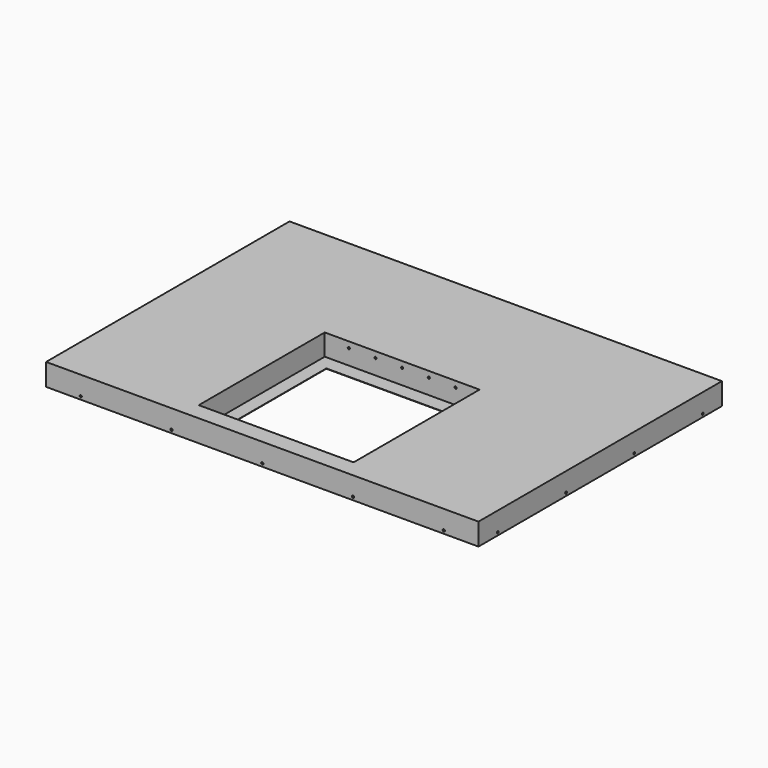
from build123d import *

# Parameters (mm, degrees)
F1_DEPTH  = 52.324
F2_T      = -1.27
F4_D      = 5.2197
F4_DEPTH  = 0.762
F4_TIP    = 1.5681560866
F6_D      = 5.2197
F7_W      = 368.3
F7_H      = 374.65
F8_DEPTH  = 52.325
F9_W      = 369.824
F9_H      = 376.174
F9_W_2    = 368.3
F9_H_2    = 374.65
F10_DEPTH = 51.562
F11_W     = 368.3
F11_H     = 374.65
F11_W_2   = 304.8
F11_H_2   = 304.8
F12_DEPTH = 0.762
F14_D     = 5.2197
F14_DEPTH = 0.762
F14_TIP   = 1.5681560866
F16_D     = 5.2197
F16_DEPTH = 0.762
F16_TIP   = 1.5681560866


with BuildPart() as f1:
    # F0 (on Top) → F1 (new body)
    with BuildSketch(Plane.XY):
        Polygon((-514.35, 361.95), (-514.35, -361.95), (0, -361.95), (0, 0), (0, 361.95), align=None)
        Polygon((0, 0), (0, -361.95), (514.35, -361.95), (514.35, 361.95), (0, 361.95), align=None)
    extrude(amount=F1_DEPTH)

    # F2
    f2_openings = [f1.faces().sort_by_distance(p)[0] for p in [
        (0, 0, 0),
    ]]
    offset(amount=F2_T, openings=f2_openings)

    # F4
    with Locations(Plane.XZ.offset(361.95)):
        with Locations((-431.8, 7.112), (-215.9, 7.112), (0, 7.112), (215.9, 7.112), (431.8, 7.112)):
            Hole(F4_D / 2, depth=F4_DEPTH)
            with Locations((0, 0, -(F4_DEPTH + F4_TIP / 2))):  # 118° drill point
                Cone(0, F4_D / 2, F4_TIP, mode=Mode.SUBTRACT)

    # F6 (through all)
    with Locations(Plane.YZ.offset(514.35)):
        with Locations((-304.8, 7.112), (-101.6, 7.112), (101.6, 7.112), (304.8, 7.112)):
            Hole(F6_D / 2)

    # F7 (on face) → F8 (cut, through all)
    with BuildSketch(Plane.XY.offset(52.324)):
        with Locations((0, -133.35)):
            Rectangle(F7_W, F7_H)
    extrude(amount=-F8_DEPTH, mode=Mode.SUBTRACT)

    # F9 (on face) → F10 (join)
    with BuildSketch(Plane.XY.offset(52.324)):
        with Locations((0, -133.35)):
            Rectangle(F9_W, F9_H)
        with Locations((0, -133.35)):
            Rectangle(F9_W_2, F9_H_2, mode=Mode.SUBTRACT)
    extrude(amount=-F10_DEPTH)

    # F11 (on face) → F12 (join)
    with BuildSketch(Plane(origin=(0, 0, 0.762), x_dir=(1, 0, 0), z_dir=(0, 0, -1))):
        with Locations((0, 133.35)):
            Rectangle(F11_W, F11_H)
        with Locations((0, 133.35)):
            Rectangle(F11_W_2, F11_H_2, mode=Mode.SUBTRACT)
    extrude(amount=-F12_DEPTH)

    # F14
    with Locations(Plane(origin=(0, 361.95, 0), x_dir=(-1, 0, 0), z_dir=(0, 1, 0))):
        with Locations((-419.1, 14.2875), (-279.4, 14.2875), (-139.7, 14.2875), (0, 14.2875), (139.7, 14.2875), (279.4, 14.2875), (419.1, 14.2875)):
            Hole(F14_D / 2, depth=F14_DEPTH)
            with Locations((0, 0, -(F14_DEPTH + F14_TIP / 2))):  # 118° drill point
                Cone(0, F14_D / 2, F14_TIP, mode=Mode.SUBTRACT)

    # F16 (one way)
    with BuildSketch(Plane.XZ.offset(-53.975)):
        with Locations((-127, 38.1), (-63.5, 38.1), (0, 38.1), (63.5, 38.1), (127, 38.1)):
            Circle(F16_D / 2)
    extrude(amount=-F16_DEPTH, mode=Mode.SUBTRACT)
    with Locations(Plane.XZ.offset(-53.975)):
        with Locations((-127, 38.1), (-63.5, 38.1), (0, 38.1), (63.5, 38.1), (127, 38.1)):
            with Locations((0, 0, -(F16_DEPTH + F16_TIP / 2))):  # 118° drill point
                Cone(0, F16_D / 2, F16_TIP, mode=Mode.SUBTRACT)


solid = f1.part
